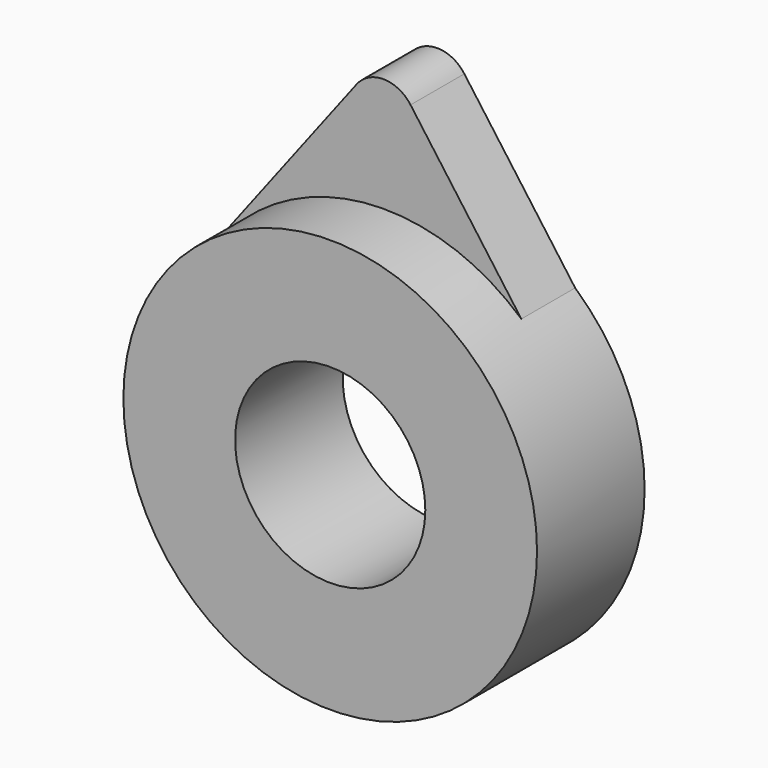
from build123d import *

# Parameters (mm, degrees)
F0_R     = 39.060961
F0_R_2   = 17.961564
F1_DEPTH = 25.4
F3_DEPTH = 12.7


with BuildPart() as f1:
    # F0 (on Front) → F1 (new body)
    with BuildSketch(Plane.XZ):
        Circle(F0_R)
        Circle(F0_R_2, mode=Mode.SUBTRACT)
    extrude(amount=F1_DEPTH)

    # F2 (on Front) → F3 (join)
    with BuildSketch(Plane.XZ):
        with BuildLine():
            Line((-5.171036, 58.106368), (-31.56358, 23.489174))
            Line((-31.56358, 23.489174), (30.095503, 23.489174))
            Line((30.095503, 23.489174), (5.014983, 57.990182))
            ThreePointArc((5.014983, 57.990182), (-0.048852, 60.605962), (-5.171036, 58.106368))
        make_face()
    extrude(amount=F3_DEPTH)


solid = f1.part
